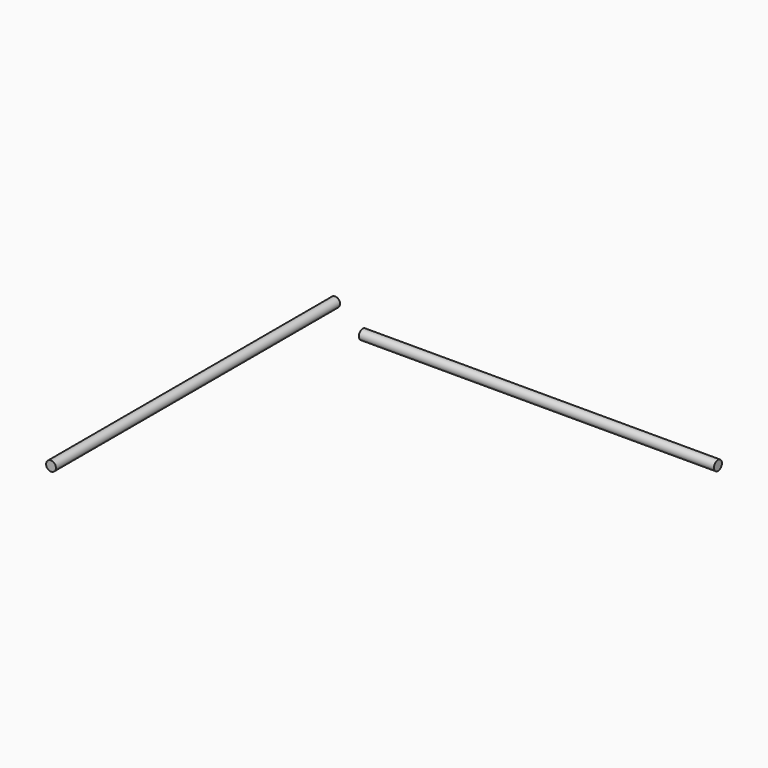
from build123d import *

# Parameters (mm, degrees)
F0_R     = 12.7
F1_DEPTH = 914.4
F2_R     = 12.7
F3_DEPTH = 914.4


with BuildPart() as f1:
    # F0 (on Front) → F1 (new body)
    with BuildSketch(Plane.XZ):
        with Locations((-38.1, 26.109889)):
            Circle(F0_R)
    extrude(amount=F1_DEPTH)


with BuildPart() as f3:
    # F2 (on Right) → F3 (new body)
    with BuildSketch(Plane.YZ):
        with Locations((41.284516, -51.24481)):
            Circle(F2_R)
    extrude(amount=F3_DEPTH)


solid = Compound([f1.part, f3.part])
